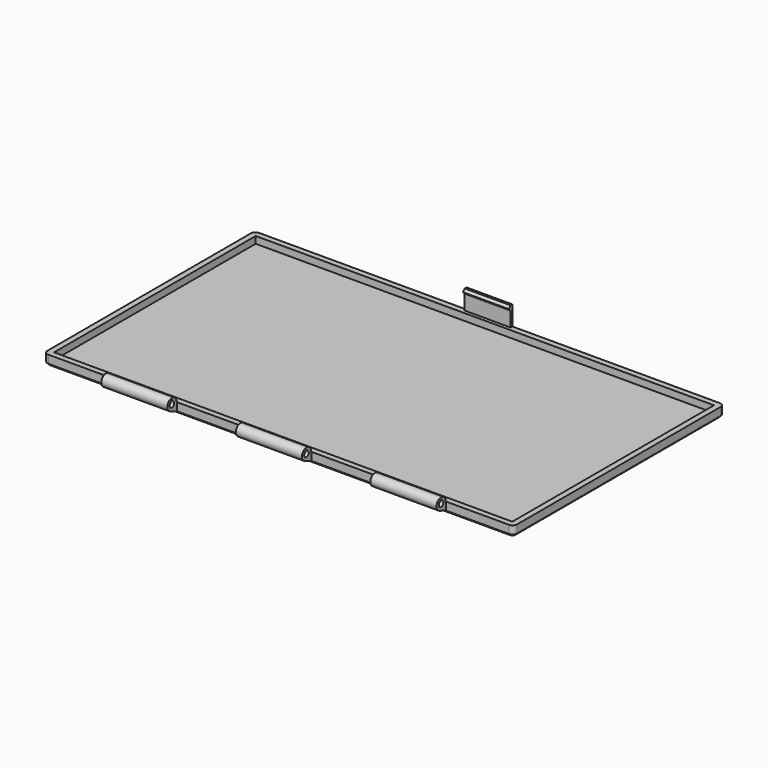
from build123d import *

# Parameters (mm, degrees)
SKETCH002_W            = 205
SKETCH002_H            = 115
PAD003_DEPTH           = 1.5
SKETCH003_W            = 205
SKETCH003_H            = 115
SKETCH003_W_2          = 200
SKETCH003_H_2          = 110
PAD002_DEPTH           = 3
SKETCH006_W            = 20
SKETCH006_H            = 1
PAD005_DEPTH           = 8.5
PAD006_DEPTH           = 10
PAD008_DEPTH           = 28.857143
LINEARPATTERN001_COUNT = 3
LINEARPATTERN001_PITCH = 58.714286
FILLET001_R            = 2
CHAMFER001_SIZE        = 1


with BuildPart() as part:
    # Sketch002 → Pad003 (new body)
    with BuildSketch(Plane.XY):
        Rectangle(SKETCH002_W, SKETCH002_H)
    extrude(amount=-PAD003_DEPTH)

    # Sketch003 → Pad002 (join)
    with BuildSketch(Plane.XY):
        Rectangle(SKETCH003_W, SKETCH003_H)
        Rectangle(SKETCH003_W_2, SKETCH003_H_2, mode=Mode.SUBTRACT)
    extrude(amount=PAD002_DEPTH)

    # Sketch006 → Pad005 (join)
    with BuildSketch(Plane.XY.offset(3)):
        with Locations((0, 57)):
            Rectangle(SKETCH006_W, SKETCH006_H)
    extrude(amount=PAD005_DEPTH)

    # Sketch007 → Pad006 (join, symmetric)
    with BuildSketch(Plane.YZ):
        Polygon((56.5, 11.5), (55.5, 10.5), (56.5, 9.5), align=None)
    extrude(amount=PAD006_DEPTH, both=True)

    # Sketch009 → Pad008 (join)
    with BuildSketch(Plane.YZ.offset(-73.142857)):
        with BuildLine():
            Line((-57.5, 3), (-57.8, 3.3))
            ThreePointArc((-57.8, 3.3), (-61.706992, 5.366488), (-61.216299, 0.973974))
            Line((-57.5, -0.49), (-61.216299, 0.973974))
            Line((-57.5, 3), (-57.5, -0.49))
        make_face()
        with BuildLine():
            Line((-61.183875, 4.183892), (-60.3, 5.067767))
            Line((-60.3, 5.067767), (-59.416106, 4.183873))
            ThreePointArc((-61.183875, 4.183892), (-60.300013, 2.05), (-59.416106, 4.183873))
        make_face(mode=Mode.SUBTRACT)
    pad008 = extrude(amount=PAD008_DEPTH)

    # LinearPattern001: Pad008 ×3
    with Locations(*[(i * LINEARPATTERN001_PITCH, 0, 0) for i in range(1, LINEARPATTERN001_COUNT)]):
        add(pad008)

    # Fillet001
    fillet001_edges = [part.edges().sort_by_distance(p)[0] for p in [
        (102.5, -57.5, 0.75),
        (102.5, 57.5, 0.75),
        (-102.5, 57.5, 0.75),
        (-102.5, -57.5, 0.75),
    ]]
    fillet(fillet001_edges, radius=FILLET001_R)

    # Chamfer001
    chamfer001_edges = [part.edges().sort_by_distance(p)[0] for p in [
        (0, 57.5, -1.5),
        (-101.914214, 56.914214, -1.5),
        (101.914214, 56.914214, -1.5),
        (-102.5, 0, -1.5),
        (102.5, 0, -1.5),
        (-101.914214, -56.914214, -1.5),
        (101.914214, -56.914214, -1.5),
        (0, -57.5, -1.5),
    ]]
    chamfer(chamfer001_edges, length=CHAMFER001_SIZE)


with BuildPart() as part_1:
    # Body001 placement: moved
    add(part.part.moved(Location((0, 133, 0))))


solid = part_1.part
